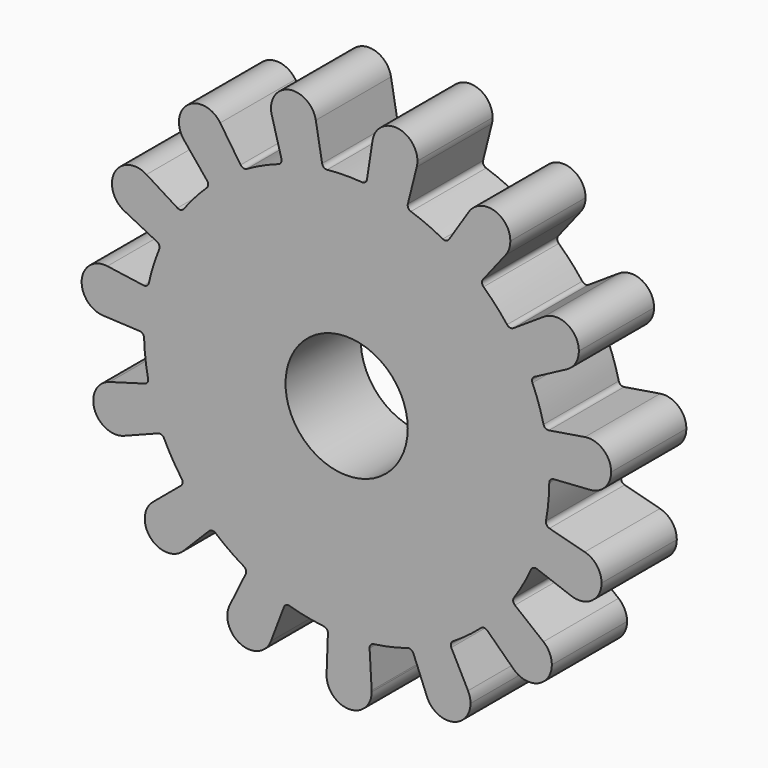
from build123d import *

# Parameters (mm, degrees)
F0_R     = 6.5
F1_DEPTH = 10


with BuildPart() as f1:
    # F0 (on Front) → F1 (new body)
    with BuildSketch(Plane.XZ):
        with BuildLine():
            ThreePointArc((21.489422, 0.089595), (21.490017, 0.182046), (21.490216, 0.274498))
            ThreePointArc((21.490216, 0.274498), (21.337215, 2.837876), (20.880386, 5.364856))
            ThreePointArc((20.880386, 5.364856), (20.366338, 7.142979), (19.701602, 8.870433))
            ThreePointArc((19.701602, 8.870433), (18.49194, 11.239716), (16.999578, 13.441906))
            ThreePointArc((16.999578, 13.441906), (15.806743, 14.85722), (14.496859, 16.164955))
            ThreePointArc((14.496859, 16.164955), (12.428103, 17.837389), (10.169051, 19.242192))
            ThreePointArc((10.169051, 19.242192), (8.503682, 20.049976), (6.77514, 20.711873))
            ThreePointArc((6.77514, 20.711873), (4.204997, 21.398279), (1.569866, 21.762791))
            ThreePointArc((1.569866, 21.762791), (-0.28008, 21.823372), (-2.1284, 21.724983))
            ThreePointArc((-2.1284, 21.724983), (-4.755529, 21.306675), (-7.311101, 20.567869))
            ThreePointArc((-7.311101, 20.567869), (-9.025751, 19.870772), (-10.674257, 19.02911))
            ThreePointArc((-10.674257, 19.02911), (-12.904117, 17.578417), (-14.938249, 15.864039))
            ThreePointArc((-14.938249, 15.864039), (-16.221125, 14.529798), (-17.384776, 13.090393))
            ThreePointArc((-17.384776, 13.090393), (-18.831804, 10.858154), (-19.992776, 8.464635))
            ThreePointArc((-19.992776, 8.464635), (-20.622056, 6.723953), (-21.099646, 4.935692))
            ThreePointArc((-21.099646, 4.935692), (-21.513639, 2.30788), (-21.600707, -0.350918))
            ThreePointArc((-21.600707, -0.350918), (-21.467584, -2.197061), (-21.176533, -4.024972))
            ThreePointArc((-21.176533, -4.024972), (-20.485906, -6.593984), (-19.484017, -9.05833))
            ThreePointArc((-19.484017, -9.05833), (-18.611509, -10.69072), (-17.602142, -12.242219))
            ThreePointArc((-17.602142, -12.242219), (-15.926312, -14.308225), (-14.008701, -16.152012))
            ThreePointArc((-14.008701, -16.152012), (-12.547672, -17.288394), (-10.994518, -18.295211))
            ThreePointArc((-10.994518, -18.295211), (-8.623251, -19.50098), (-6.12149, -20.405401))
            ThreePointArc((-6.12149, -20.405401), (-4.324566, -20.849283), (-2.49618, -21.137332))
            ThreePointArc((-2.49618, -21.137332), (0.160511, -21.274376), (2.813844, -21.083048))
            ThreePointArc((2.813844, -21.083048), (4.63596, -20.75768), (6.423434, -20.277154))
            ThreePointArc((6.423434, -20.277154), (8.906182, -19.321776), (11.252303, -18.067781))
            ThreePointArc((11.252303, -18.067781), (12.784549, -17.029421), (14.22204, -15.863408))
            ThreePointArc((14.22204, -15.863408), (16.101556, -13.980802), (17.734798, -11.880967))
            ThreePointArc((17.734798, -11.880967), (18.712236, -10.309158), (19.551189, -8.659271))
            ThreePointArc((19.551189, -8.659271), (20.502488, -6.174957), (21.140449, -3.592363))
            ThreePointArc((21.140449, -3.592363), (21.39407, -1.758884), (21.489422, 0.089595))
        make_face()
        with Locations((-0.059784, 0.274498)):
            Circle(F0_R, mode=Mode.SUBTRACT)
        with BuildLine():
            ThreePointArc((20.880386, 5.364856), (21.337215, 2.837876), (21.490216, 0.274498))
            ThreePointArc((21.490216, 0.274498), (21.490017, 0.182046), (21.489422, 0.089595))
            ThreePointArc((21.489422, 0.089595), (21.625402, 0.428092), (21.955134, 0.584129))
            Line((21.955134, 0.584129), (25.833808, 0.8506))
            ThreePointArc((25.833808, 0.8506), (23.285148, 2.969702), (25.283889, 5.613806))
            Line((25.283889, 5.613806), (21.446534, 4.989451))
            ThreePointArc((21.446534, 4.989451), (21.089921, 5.066249), (20.880386, 5.364856))
        make_face()
        with BuildLine():
            ThreePointArc((16.999578, 13.441906), (18.49194, 11.239716), (19.701602, 8.870433))
            ThreePointArc((19.701602, 8.870433), (19.688147, 9.234973), (19.925906, 9.511634))
            Line((19.925906, 9.511634), (23.360867, 11.332666))
            ThreePointArc((23.360867, 11.332666), (20.170635, 12.231929), (20.921121, 15.4604))
            Line((20.921121, 15.4604), (17.66947, 13.32923))
            ThreePointArc((17.66947, 13.32923), (17.312452, 13.254341), (16.999578, 13.441906))
        make_face()
        with BuildLine():
            ThreePointArc((21.504959, -4.165585), (21.210414, -3.950379), (21.140449, -3.592363))
            ThreePointArc((21.140449, -3.592363), (20.502488, -6.174957), (19.551189, -8.659271))
            ThreePointArc((19.551189, -8.659271), (19.813092, -8.405347), (20.177783, -8.396914))
            Line((20.177783, -8.396914), (23.829511, -9.731079))
            ThreePointArc((23.829511, -9.731079), (22.363111, -6.75855), (25.264506, -5.156002))
            Line((25.264506, -5.156002), (21.504959, -4.165585))
        make_face()
        with BuildLine():
            ThreePointArc((28.069311, 3.244956), (27.22414, 5.073209), (25.283889, 5.613806))
            ThreePointArc((25.283889, 5.613806), (23.285148, 2.969702), (25.833808, 0.8506))
            ThreePointArc((25.833808, 0.8506), (27.423562, 1.607091), (28.069311, 3.244956))
        make_face()
        with BuildLine():
            ThreePointArc((10.169051, 19.242192), (12.428103, 17.837389), (14.496859, 16.164955))
            ThreePointArc((14.496859, 16.164955), (14.336295, 16.492507), (14.44097, 16.841954))
            Line((14.44097, 16.841954), (16.838283, 19.902675))
            ThreePointArc((16.838283, 19.902675), (13.558098, 19.426607), (12.930564, 22.681212))
            Line((12.930564, 22.681212), (10.826858, 19.411727))
            ThreePointArc((10.826858, 19.411727), (10.531165, 19.198099), (10.169051, 19.242192))
        make_face()
        with BuildLine():
            ThreePointArc((20.921121, 15.4604), (20.170635, 12.231929), (23.360867, 11.332666))
            ThreePointArc((23.360867, 11.332666), (24.293167, 12.215768), (24.63672, 13.453113))
            ThreePointArc((24.63672, 13.453113), (23.377457, 15.564681), (20.921121, 15.4604))
        make_face()
        with BuildLine():
            ThreePointArc((17.834645, -12.552891), (17.653096, -12.236488), (17.734798, -11.880967))
            ThreePointArc((17.734798, -11.880967), (16.101556, -13.980802), (14.22204, -15.863408))
            ThreePointArc((14.22204, -15.863408), (14.56458, -15.737962), (14.901172, -15.878591))
            Line((14.901172, -15.878591), (17.694538, -18.582703))
            ThreePointArc((17.694538, -18.582703), (17.563951, -15.270725), (20.866323, -14.986827))
            Line((20.866323, -14.986827), (17.834645, -12.552891))
        make_face()
        with BuildLine():
            ThreePointArc((27.053109, -7.476819), (26.554076, -6.011786), (25.264506, -5.156002))
            ThreePointArc((25.264506, -5.156002), (22.363111, -6.75855), (23.829511, -9.731079))
            ThreePointArc((23.829511, -9.731079), (26.028493, -9.443623), (27.053109, -7.476819))
        make_face()
        with BuildLine():
            ThreePointArc((1.569866, 21.762791), (4.204997, 21.398279), (6.77514, 20.711873))
            ThreePointArc((6.77514, 20.711873), (6.49523, 20.945799), (6.448722, 21.307611))
            Line((6.448722, 21.307611), (7.393869, 25.078793))
            ThreePointArc((7.393869, 25.078793), (4.590905, 23.309712), (2.693857, 26.027701))
            Line((2.693857, 26.027701), (2.101846, 22.185223))
            ThreePointArc((2.101846, 22.185223), (1.918607, 21.869795), (1.569866, 21.762791))
        make_face()
        with BuildLine():
            ThreePointArc((12.930564, 22.681212), (13.558098, 19.426607), (16.838283, 19.902675))
            ThreePointArc((16.838283, 19.902675), (17.217628, 20.59982), (17.34886, 21.382567))
            ThreePointArc((17.34886, 21.382567), (15.62565, 23.685165), (12.930564, 22.681212))
        make_face()
        with BuildLine():
            ThreePointArc((11.070221, -18.722225), (11.03306, -18.359334), (11.252303, -18.067781))
            ThreePointArc((11.252303, -18.067781), (8.906182, -19.321776), (6.423434, -20.277154))
            ThreePointArc((6.423434, -20.277154), (6.787383, -20.301877), (7.037676, -20.567252))
            Line((7.037676, -20.567252), (8.489682, -24.173746))
            ThreePointArc((8.489682, -24.173746), (9.717488, -21.094989), (12.849825, -22.178831))
            Line((12.849825, -22.178831), (11.070221, -18.722225))
        make_face()
        with BuildLine():
            ThreePointArc((21.763822, -16.858322), (21.527846, -15.820536), (20.866323, -14.986827))
            ThreePointArc((20.866323, -14.986827), (17.563951, -15.270725), (17.694538, -18.582703))
            ThreePointArc((17.694538, -18.582703), (20.30023, -19.068105), (21.763822, -16.858322))
        make_face()
        with BuildLine():
            ThreePointArc((-7.311101, 20.567869), (-4.755529, 21.306675), (-2.1284, 21.724983))
            ThreePointArc((-2.1284, 21.724983), (-2.479256, 21.824836), (-2.668905, 22.136451))
            Line((-2.668905, 22.136451), (-3.339348, 25.966023))
            ThreePointArc((-3.339348, 25.966023), (-3.312399, 25.759866), (-3.303393, 25.55215))
            ThreePointArc((-3.303393, 25.55215), (-5.385121, 23.173347), (-8.018979, 24.921226))
            Line((-8.018979, 24.921226), (-6.996931, 21.170155))
            ThreePointArc((-6.996931, 21.170155), (-7.036032, 20.807468), (-7.311101, 20.567869))
        make_face()
        with BuildLine():
            ThreePointArc((2.693857, 26.027701), (4.590905, 23.309712), (7.393869, 25.078793))
            ThreePointArc((7.393869, 25.078793), (7.447801, 25.368306), (7.465869, 25.662244))
            ThreePointArc((7.465869, 25.662244), (5.249133, 28.055237), (2.693857, 26.027701))
        make_face()
        with BuildLine():
            ThreePointArc((2.381318, -21.606853), (2.494971, -21.260221), (2.813844, -21.083048))
            ThreePointArc((2.813844, -21.083048), (0.160511, -21.274376), (-2.49618, -21.137332))
            ThreePointArc((-2.49618, -21.137332), (-2.173751, -21.30795), (-2.053035, -21.652186))
            Line((-2.053035, -21.652186), (-2.193455, -25.537465))
            ThreePointArc((-2.193455, -25.537465), (0.180445, -23.224274), (2.60114, -25.48845))
            Line((2.60114, -25.48845), (2.381318, -21.606853))
        make_face()
        with BuildLine():
            ThreePointArc((13.116017, -23.277404), (13.04852, -22.712223), (12.849825, -22.178831))
            ThreePointArc((12.849825, -22.178831), (9.717488, -21.094989), (8.489682, -24.173746))
            ThreePointArc((8.489682, -24.173746), (11.172523, -25.633588), (13.116017, -23.277404))
        make_face()
        with BuildLine():
            ThreePointArc((-14.938249, 15.864039), (-12.904117, 17.578417), (-10.674257, 19.02911))
            ThreePointArc((-10.674257, 19.02911), (-11.035394, 18.977623), (-11.335392, 19.185161))
            Line((-11.335392, 19.185161), (-13.5055, 22.410955))
            ThreePointArc((-13.5055, 22.410955), (-13.201266, 21.771612), (-13.096825, 21.071319))
            ThreePointArc((-13.096825, 21.071319), (-14.690926, 18.810672), (-17.355598, 19.553109))
            Line((-17.355598, 19.553109), (-14.896213, 16.542039))
            ThreePointArc((-14.896213, 16.542039), (-14.784416, 16.194804), (-14.938249, 15.864039))
        make_face()
        with BuildLine():
            ThreePointArc((-3.303393, 25.55215), (-3.312399, 25.759866), (-3.339348, 25.966023))
            ThreePointArc((-3.339348, 25.966023), (-6.226353, 27.89448), (-8.018979, 24.921226))
            ThreePointArc((-8.018979, 24.921226), (-5.385121, 23.173347), (-3.303393, 25.55215))
        make_face()
        with BuildLine():
            ThreePointArc((-6.729674, -20.707997), (-6.484858, -20.43756), (-6.12149, -20.405401))
            ThreePointArc((-6.12149, -20.405401), (-8.623251, -19.50098), (-10.994518, -18.295211))
            ThreePointArc((-10.994518, -18.295211), (-10.769361, -18.582222), (-10.799095, -18.945796))
            Line((-10.799095, -18.945796), (-12.507661, -22.438062))
            ThreePointArc((-12.507661, -22.438062), (-9.810532, -21.154624), (-7.95184, -23.492782))
            ThreePointArc((-7.95184, -23.492782), (-7.991112, -23.925177), (-8.107644, -24.343421))
            Line((-8.107644, -24.343421), (-6.729674, -20.707997))
        make_face()
        with BuildLine():
            ThreePointArc((2.604979, -25.624149), (2.604019, -25.556272), (2.60114, -25.48845))
            ThreePointArc((2.60114, -25.48845), (0.180445, -23.224274), (-2.193455, -25.537465))
            ThreePointArc((-2.193455, -25.537465), (0.16163, -28.023757), (2.604979, -25.624149))
        make_face()
        with BuildLine():
            ThreePointArc((-19.992776, 8.464635), (-18.831804, 10.858154), (-17.384776, 13.090393))
            ThreePointArc((-17.384776, 13.090393), (-17.693749, 12.896471), (-18.052224, 12.964045))
            Line((-18.052224, 12.964045), (-21.346765, 15.028293))
            ThreePointArc((-21.346765, 15.028293), (-20.521256, 14.156793), (-20.221052, 12.994529))
            ThreePointArc((-20.221052, 12.994529), (-21.362749, 10.950838), (-23.701614, 10.851544))
            Line((-23.701614, 10.851544), (-20.230141, 9.101117))
            ThreePointArc((-20.230141, 9.101117), (-19.986776, 8.829374), (-19.992776, 8.464635))
        make_face()
        with BuildLine():
            ThreePointArc((-13.096825, 21.071319), (-13.201266, 21.771612), (-13.5055, 22.410955))
            ThreePointArc((-13.5055, 22.410955), (-16.927284, 22.998438), (-17.355598, 19.553109))
            ThreePointArc((-17.355598, 19.553109), (-14.690926, 18.810672), (-13.096825, 21.071319))
        make_face()
        with BuildLine():
            ThreePointArc((-14.687381, -16.181076), (-14.353734, -16.033595), (-14.008701, -16.152012))
            ThreePointArc((-14.008701, -16.152012), (-15.926312, -14.308225), (-17.602142, -12.242219))
            ThreePointArc((-17.602142, -12.242219), (-17.513189, -12.595995), (-17.688231, -12.916044))
            Line((-17.688231, -12.916044), (-20.669516, -15.41145))
            ThreePointArc((-20.669516, -15.41145), (-18.113459, -15.077317), (-16.729068, -17.251837))
            ThreePointArc((-16.729068, -17.251837), (-16.909829, -18.165606), (-17.42488, -18.941731))
            Line((-17.42488, -18.941731), (-14.687381, -16.181076))
        make_face()
        with BuildLine():
            ThreePointArc((-12.507661, -22.438062), (-11.305544, -25.695156), (-8.107644, -24.343421))
            ThreePointArc((-8.107644, -24.343421), (-7.991112, -23.925177), (-7.95184, -23.492782))
            ThreePointArc((-7.95184, -23.492782), (-9.810532, -21.154624), (-12.507661, -22.438062))
        make_face()
        with BuildLine():
            ThreePointArc((-21.600707, -0.350918), (-21.513639, 2.30788), (-21.099646, 4.935692))
            ThreePointArc((-21.099646, 4.935692), (-21.303032, 4.632864), (-21.658, 4.548791))
            Line((-21.658, 4.548791), (-25.507318, 5.094565))
            ThreePointArc((-25.507318, 5.094565), (-24.031968, 4.291768), (-23.444231, 2.718331))
            ThreePointArc((-23.444231, 2.718331), (-24.188518, 0.980915), (-25.959742, 0.321112))
            Line((-25.959742, 0.321112), (-22.076432, 0.133992))
            ThreePointArc((-22.076432, 0.133992), (-21.743579, -0.015271), (-21.600707, -0.350918))
        make_face()
        with BuildLine():
            ThreePointArc((-20.221052, 12.994529), (-20.521256, 14.156793), (-21.346765, 15.028293))
            ThreePointArc((-21.346765, 15.028293), (-24.711671, 14.17322), (-23.701614, 10.851544))
            ThreePointArc((-23.701614, 10.851544), (-21.362749, 10.950838), (-20.221052, 12.994529))
        make_face()
        with BuildLine():
            ThreePointArc((-20.115844, -8.808838), (-19.751057, -8.809813), (-19.484017, -9.05833))
            ThreePointArc((-19.484017, -9.05833), (-20.485906, -6.593984), (-21.176533, -4.024972))
            ThreePointArc((-21.176533, -4.024972), (-21.239164, -4.384344), (-21.529248, -4.605526))
            Line((-21.529248, -4.605526), (-25.267761, -5.672596))
            ThreePointArc((-25.267761, -5.672596), (-23.16352, -6.064585), (-22.209045, -7.980429))
            ThreePointArc((-22.209045, -7.980429), (-22.628284, -9.335636), (-23.739533, -10.21738))
            Line((-23.739533, -10.21738), (-20.115844, -8.808838))
        make_face()
        with BuildLine():
            ThreePointArc((-20.669516, -15.41145), (-20.896106, -18.875899), (-17.42488, -18.941731))
            ThreePointArc((-17.42488, -18.941731), (-16.909829, -18.165606), (-16.729068, -17.251837))
            ThreePointArc((-16.729068, -17.251837), (-18.113459, -15.077317), (-20.669516, -15.41145))
        make_face()
        with BuildLine():
            ThreePointArc((-23.444231, 2.718331), (-24.031968, 4.291768), (-25.507318, 5.094565))
            ThreePointArc((-25.507318, 5.094565), (-28.233523, 2.944786), (-25.959742, 0.321112))
            ThreePointArc((-25.959742, 0.321112), (-24.188518, 0.980915), (-23.444231, 2.718331))
        make_face()
        with BuildLine():
            ThreePointArc((-25.267761, -5.672596), (-26.88388, -8.745364), (-23.739533, -10.21738))
            ThreePointArc((-23.739533, -10.21738), (-22.628284, -9.335636), (-22.209045, -7.980429))
            ThreePointArc((-22.209045, -7.980429), (-23.16352, -6.064585), (-25.267761, -5.672596))
        make_face()
    extrude(amount=F1_DEPTH)


solid = f1.part
